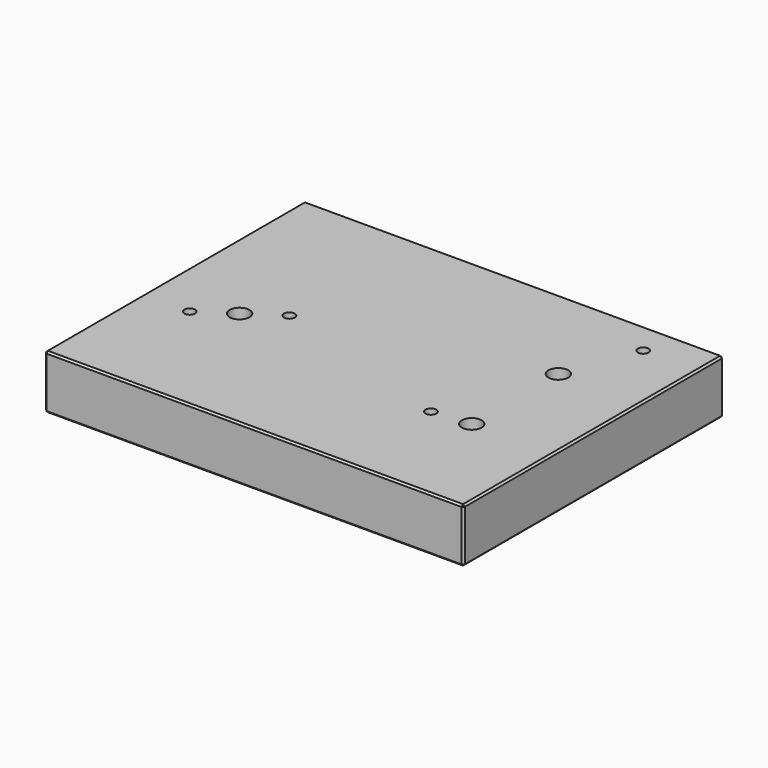
from build123d import *

# Parameters (mm, degrees)
F0_W           = 116
F0_H           = 90
F1_DEPTH       = 15
F2_SIZE        = 0.5
F5_D           = 3
F5_DEPTH       = 8
F5_TIP         = 0.9012909285
F6_D           = 4.2
F6_DEPTH       = 13
F6_TIP         = 1.2618073
F7_D           = 5.5
F7_CBORE_D     = 10
F7_CBORE_DEPTH = 6.5


with BuildPart() as f1:
    # F0 (on Top) → F1 (new body)
    with BuildSketch(Plane.XY):
        with Locations((58, 45)):
            Rectangle(F0_W, F0_H)
    extrude(amount=F1_DEPTH)

    # F2
    f2_edges = [f1.edges().sort_by_distance(p)[0] for p in [
        (0, 45, 15),
        (58, 0, 15),
        (116, 45, 15),
        (58, 90, 15),
        (0, 45, 0),
        (58, 0, 0),
        (116, 45, 0),
        (58, 90, 0),
        (0, 0, 7.5),
        (116, 0, 7.5),
        (116, 90, 7.5),
        (0, 90, 7.5),
    ]]
    chamfer(f2_edges, length=F2_SIZE)

    # F5
    with Locations(Plane.XY.offset(15)):
        with Locations((101, 81), (31, 46), (13, 34), (83, 30)):
            Hole(F5_D / 2, depth=F5_DEPTH)
            with Locations((0, 0, -(F5_DEPTH + F5_TIP / 2))):  # 118° drill point
                Cone(0, F5_D / 2, F5_TIP, mode=Mode.SUBTRACT)

    # F6
    with Locations(Plane(origin=(0, 0, 0), x_dir=(1, 0, 0), z_dir=(0, 0, -1))):
        with Locations((105, -45), (11, -45)):
            Hole(F6_D / 2, depth=F6_DEPTH)
            with Locations((0, 0, -(F6_DEPTH + F6_TIP / 2))):  # 118° drill point
                Cone(0, F6_D / 2, F6_TIP, mode=Mode.SUBTRACT)

    # F7 (through all)
    with Locations(Plane(origin=(0, 0, 0), x_dir=(1, 0, 0), z_dir=(0, 0, -1))):
        with Locations((93.5, -61), (93.5, -31), (22, -40)):
            CounterBoreHole(F7_D / 2, F7_CBORE_D / 2, F7_CBORE_DEPTH)


solid = f1.part
